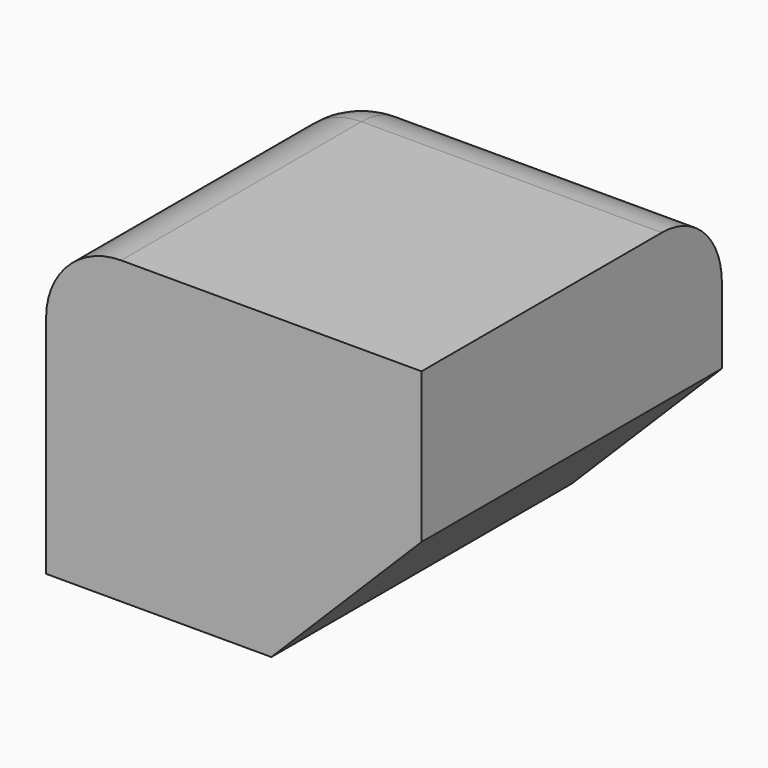
from build123d import *

# Parameters (mm, degrees)
F0_W     = 25
F0_H     = 25
F1_DEPTH = 20
F2_R     = 5
F3_SIZE  = 10


with BuildPart() as f1:
    # F0 (on Top) → F1 (new body)
    with BuildSketch(Plane.XY):
        Rectangle(F0_W, F0_H)
    extrude(amount=F1_DEPTH)

    # F2
    f2_edges = [f1.edges().sort_by_distance(p)[0] for p in [
        (-12.5, 12.5, 10),
        (-12.5, 0, 20),
        (0, 12.5, 20),
    ]]
    fillet(f2_edges, radius=F2_R)

    # F3
    f3_edges = [f1.edges().sort_by_distance(p)[0] for p in [
        (12.5, 0, 0),
    ]]
    chamfer(f3_edges, length=F3_SIZE)


solid = f1.part
